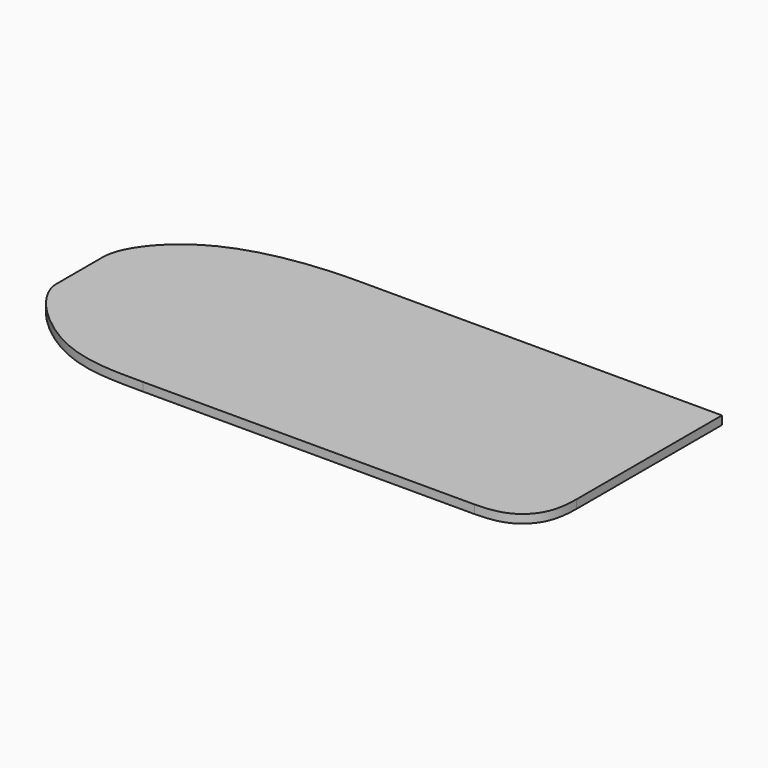
from build123d import *

# Parameters (mm, degrees)
F1_DEPTH = 19.05


with BuildPart() as f1:
    # F0 (on Top) → F1 (new body)
    with BuildSketch(Plane.XY):
        with BuildLine():
            Line((1071.0159201622, -8.2989922523), (254.3527232081, -8.2989922523))
            add(Edge.make_bspline(
                [(-148.1840798378, -216.2680476904), (-148.6435220602, -169.1820668459), (-44.4471985887, -28.6854879945), (169.1966929013, -8.4620483078), (254.3527232081, -8.2989922523)],
                knots=[0, 0, 0, 0, 0.4425410138, 1, 1, 1, 1], degree=3))
            Line((-148.1840798378, -216.2680476904), (-148.1840798378, -339.8153483868))
            add(Edge.make_bspline(
                [(-148.1840798378, -339.8153483868), (-153.4948728045, -392.1768578476), (0.9465640393, -546.4392561923), (137.8169712659, -541.1362554842), (201.3389880346, -541.6989922523)],
                knots=[0, 0, 0, 0, 0.5118383648, 1, 1, 1, 1], degree=3))
            Line((201.3389880346, -541.6989922523), (944.0159201622, -541.6989922523))
            add(Edge.make_bspline(
                [(944.0159201622, -541.6989922523), (995.8091974258, -541.6989922523), (1047.317173092, -516.7797955455), (1071.0159201622, -465.3031229973), (1071.0159201622, -414.6989922523)],
                knots=[0, 0, 0, 0, 0.5018573547, 1, 1, 1, 1], degree=3))
            Line((1071.0159201622, -414.6989922523), (1071.0159201622, -8.2989922523))
        make_face()
    extrude(amount=F1_DEPTH)


solid = f1.part
